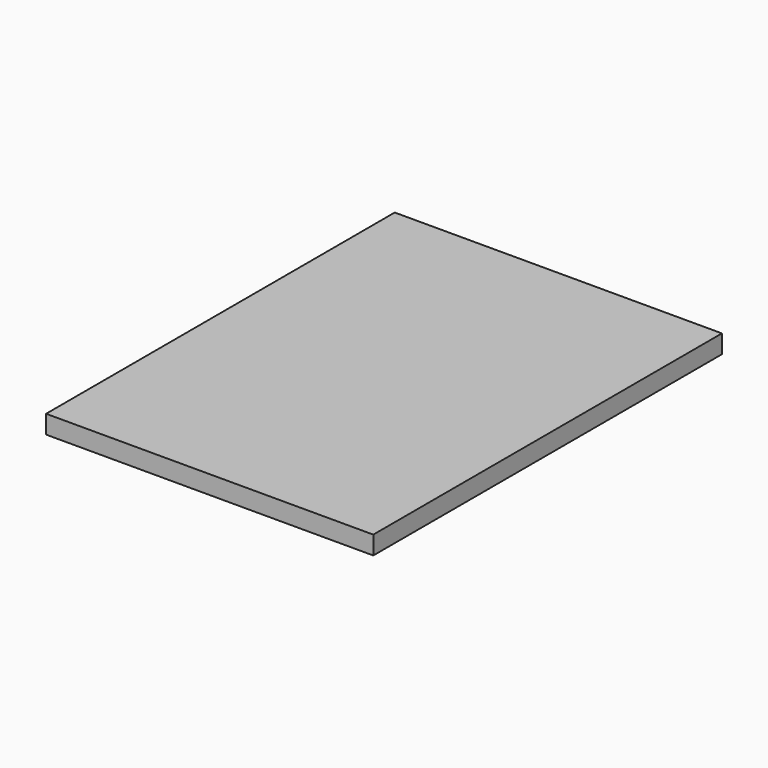
from build123d import *

# Parameters (mm, degrees)
SKETCH_W      = 106.68
SKETCH_H      = 142.0876
EXTRUDE_DEPTH = 5.9944


with BuildPart() as part:
    # Sketch → Extrude (new body)
    with BuildSketch(Plane.XY):
        with Locations((7.119469, -17.028391)):
            Rectangle(SKETCH_W, SKETCH_H)
    extrude(amount=EXTRUDE_DEPTH)


solid = part.part
